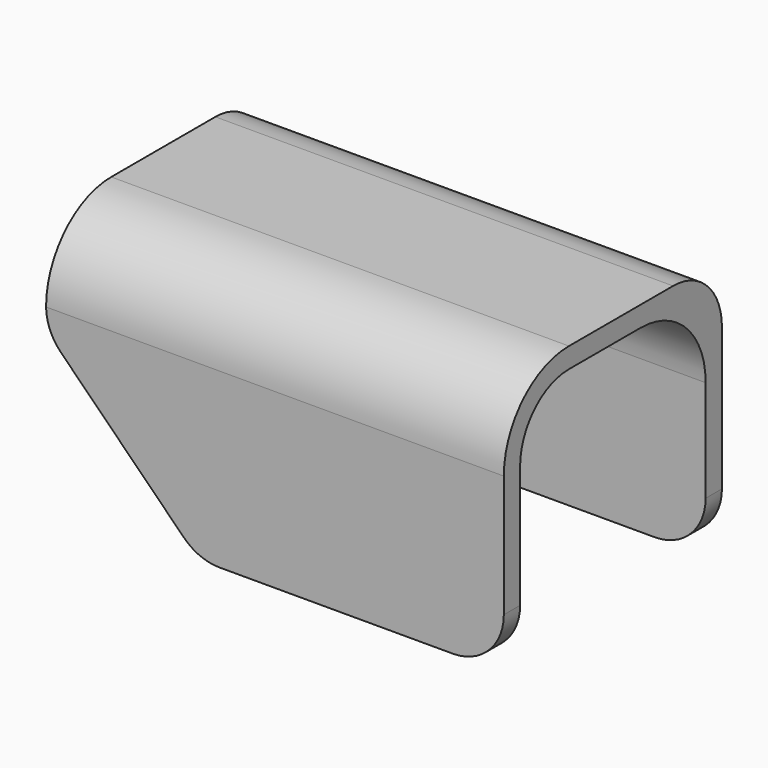
from build123d import *

# Parameters (mm, degrees)
F1_DEPTH = 45
F2_R     = 6
F3_R     = 8
F4_R     = 5
F5_SIZE  = 15
F6_R     = 5
F7_R     = 5
F8_R     = 8
F9_R     = 6


with BuildPart() as f1:
    # F0 (on Right) → F1 (new body)
    with BuildSketch(Plane.YZ):
        Polygon((13.4, 12.5), (-13.4, 12.5), (-13.4, -12.5), (-11.4, -12.5), (-11.4, 10.5), (11.4, 10.5), (11.4, -12.5), (13.4, -12.5), align=None)
    extrude(amount=F1_DEPTH)

    # F2
    f2_edges = [f1.edges().sort_by_distance(p)[0] for p in [
        (22.5, -11.4, 10.5),
    ]]
    fillet(f2_edges, radius=F2_R)

    # F3
    f3_edges = [f1.edges().sort_by_distance(p)[0] for p in [
        (22.5, -13.4, 12.5),
    ]]
    fillet(f3_edges, radius=F3_R)

    # F4
    f4_edges = [f1.edges().sort_by_distance(p)[0] for p in [
        (0, 12.4, -12.5),
        (45, 12.4, -12.5),
    ]]
    fillet(f4_edges, radius=F4_R)

    # F5
    f5_edges = [f1.edges().sort_by_distance(p)[0] for p in [
        (0, -12.4, -12.5),
    ]]
    chamfer(f5_edges, length=F5_SIZE)

    # F6
    f6_edges = [f1.edges().sort_by_distance(p)[0] for p in [
        (0, -12.4, 2.5),
        (15, -12.4, -12.5),
    ]]
    fillet(f6_edges, radius=F6_R)

    # F7
    f7_edges = [f1.edges().sort_by_distance(p)[0] for p in [
        (45, -12.4, -12.5),
    ]]
    fillet(f7_edges, radius=F7_R)

    # F8
    f8_edges = [f1.edges().sort_by_distance(p)[0] for p in [
        (22.5, 11.4, 10.5),
    ]]
    fillet(f8_edges, radius=F8_R)

    # F9
    f9_edges = [f1.edges().sort_by_distance(p)[0] for p in [
        (22.5, 13.4, 12.5),
    ]]
    fillet(f9_edges, radius=F9_R)


solid = f1.part
